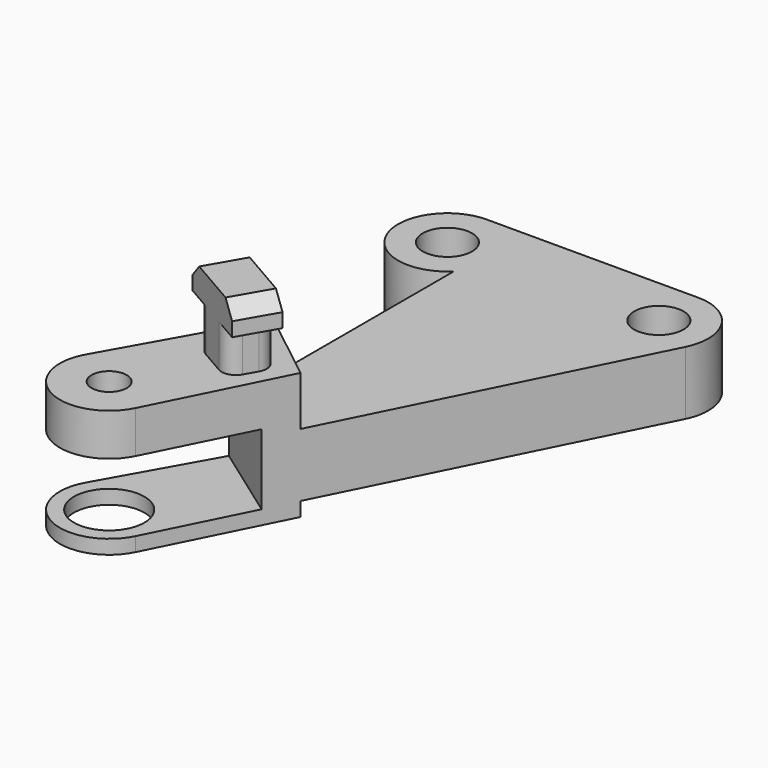
from build123d import *

# Parameters (mm, degrees)
SKETCH012_R       = 1.75
SKETCH012_R_2     = 1.25
PAD006_DEPTH      = 4.5
SKETCH050_R       = 1.25
PAD023_DEPTH      = 8
PAD023_DEPTH_BACK = 1
POCKET022_DEPTH   = 5
SKETCH080_R       = 2.5
POCKET031_DEPTH   = 5
SKETCH081_W       = 3
SKETCH081_H       = 5
PAD044_DEPTH      = 2
SKETCH082_W       = 3
SKETCH082_H       = 2
PAD045_DEPTH      = 3
FILLET007_R       = 1
CHAMFER001_SIZE   = 1


with BuildPart() as part:
    # Sketch012 → Pad006 (new body)
    with BuildSketch(Plane.XY):
        with BuildLine():
            ThreePointArc((2.44949, -27.5), (-3.451901, -30.578258), (3.130495, -31.565248))
            Line((3.130495, -31.565248), (18.130495, -1.565248))
            ThreePointArc((18.130495, -1.565248), (17.977278, 1.840059), (15, 3.5))
            Line((0, 3.5), (15, 3.5))
            ThreePointArc((0, 3.5), (-3.24037, -1.322876), (2.44949, -2.5))
            Line((2.44949, -27.5), (2.44949, -2.5))
        make_face()
        Circle(SKETCH012_R, mode=Mode.SUBTRACT)
        with Locations((0, -30)):
            Circle(SKETCH012_R_2, mode=Mode.SUBTRACT)
        with Locations((15, 0)):
            Circle(SKETCH012_R, mode=Mode.SUBTRACT)
    extrude(amount=PAD006_DEPTH)

    # Sketch050 → Pad023 (join, two sides)
    with BuildSketch(Plane.XY) as pad023_sk:
        with BuildLine():
            Line((2.44949, -18.5), (-3.050986, -28.284925))
            ThreePointArc((-3.050986, -28.284925), (-1.640643, -33.091649), (3.130495, -31.565248))
            Line((3.130495, -31.565248), (7.630495, -22.565248))
            Line((2.44949, -18.5), (7.630495, -22.565248))
        make_face()
        with Locations((0, -30)):
            Circle(SKETCH050_R, mode=Mode.SUBTRACT)
    extrude(amount=PAD023_DEPTH)
    extrude(pad023_sk.sketch, amount=-PAD023_DEPTH_BACK)

    # Sketch051 → Pocket022 (cut)
    with BuildSketch(Plane.XY):
        Polygon((0, -35), (7, -35), (7, -25), (0, -20), (-4, -20), (-4, -35), align=None)
    extrude(amount=POCKET022_DEPTH, mode=Mode.SUBTRACT)

    # Sketch080 → Pocket031 (cut)
    with BuildSketch(Plane(origin=(0, -30, 0), x_dir=(1, 0, 0), z_dir=(0, 0, 1))):
        Circle(SKETCH080_R)
    extrude(amount=-POCKET031_DEPTH, mode=Mode.SUBTRACT)

    # Sketch081 → Pad044 (join, symmetric)
    with BuildSketch(Plane(origin=(4.5, -22, 8), x_dir=(0.5, 0.866025, 0), z_dir=(0.866025, -0.5, 0))):
        with Locations((-1.5, 2.5)):
            Rectangle(SKETCH081_W, SKETCH081_H)
    extrude(amount=PAD044_DEPTH, both=True)

    # Sketch082 → Pad045 (join, symmetric)
    with BuildSketch(Plane(origin=(4.5, -22, 11), x_dir=(0.5, 0.866025, 0), z_dir=(0.866025, -0.5, 0))):
        with Locations((-1.5, 1)):
            Rectangle(SKETCH082_W, SKETCH082_H)
    extrude(amount=PAD045_DEPTH, both=True)

    # Fillet007
    fillet007_edges = [part.edges().sort_by_distance(p)[0] for p in [
        (1.267949, -23.598076, 9.5),
        (2.767949, -21, 9.5),
        (6.232051, -23, 9.5),
        (4.732051, -25.598076, 9.5),
    ]]
    fillet(fillet007_edges, radius=FILLET007_R)

    # Chamfer001
    chamfer001_edges = [part.edges().sort_by_distance(p)[0] for p in [
        (6.348076, -24.799038, 13),
        (1.151924, -21.799038, 13),
    ]]
    chamfer(chamfer001_edges, length=CHAMFER001_SIZE)


with BuildPart() as part_1:
    # Body004 placement: moved
    add(part.part.moved(Location((-45, 22, 0))))


solid = part_1.part
